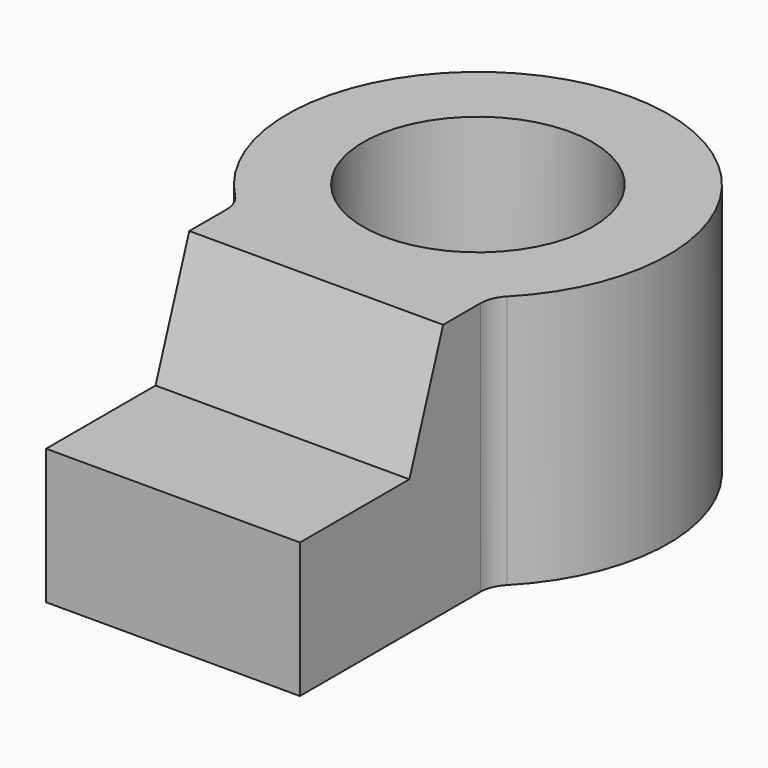
from build123d import *

# Parameters (mm, degrees)
F0_R     = 22.932499
F1_DEPTH = 50.8
F3_DEPTH = 38.1


with BuildPart() as f1:
    # F0 (on Top) → F1 (new body)
    with BuildSketch(Plane.XY):
        with BuildLine():
            ThreePointArc((25.377046, 2.454483), (25.848974, 4.856726), (27.194611, 6.901902))
            ThreePointArc((27.194611, 6.901902), (0, 71.686413), (-27.194611, 6.901902))
            ThreePointArc((-27.194611, 6.901902), (-25.848974, 4.856726), (-25.377046, 2.454483))
            Line((-25.377046, 2.454483), (-25.377046, -42.613587))
            Line((-25.377046, -42.613587), (25.377046, -42.613587))
            Line((25.377046, -42.613587), (25.377046, 2.454483))
        make_face()
        with Locations((0, 33.586413)):
            Circle(F0_R, mode=Mode.SUBTRACT)
    extrude(amount=F1_DEPTH)

    # F2 (on Right) → F3 (cut, symmetric)
    with BuildSketch(Plane.YZ):
        Polygon((-47.515366, 27.248772), (-42.938434, 27.030824), (-15.25889, 27.030824), (-4.361433, 57.761654), (-47.515366, 57.761654), align=None)
    extrude(amount=F3_DEPTH, both=True, mode=Mode.SUBTRACT)


solid = f1.part
